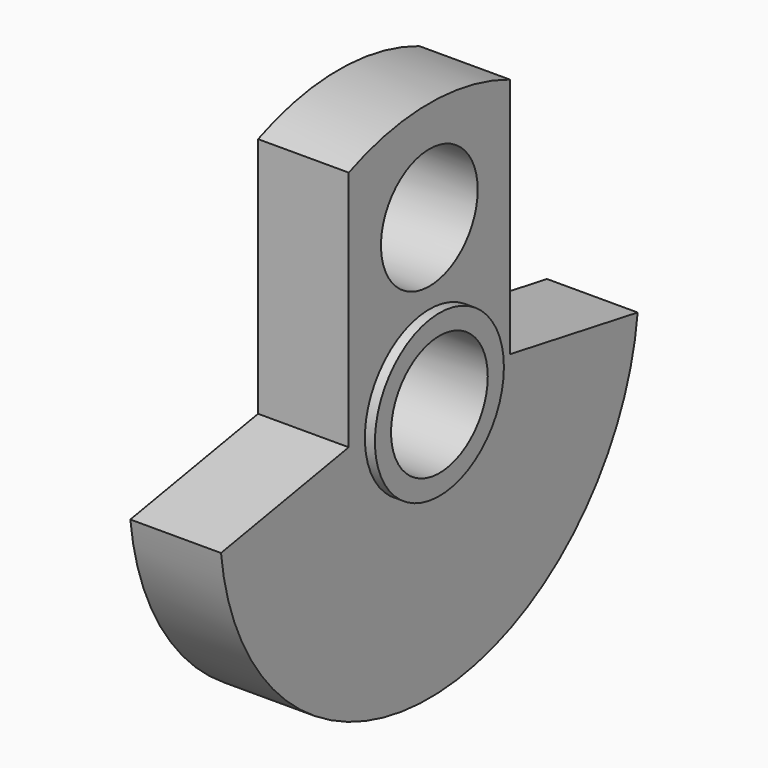
from build123d import *

# Parameters (mm, degrees)
F0_R     = 9.525
F1_DEPTH = 7.14375
F2_R     = 12.7
F2_R_2   = 9.525
F3_DEPTH = 1.5875


with BuildPart() as f1:
    # F0 (on Right) → F1 (new body, symmetric)
    with BuildSketch(Plane.YZ):
        with BuildLine():
            Line((-15.875, 0), (-41.035871, -4.43654))
            ThreePointArc((-41.035871, -4.43654), (0, -41.275), (41.035871, -4.43654))
            Line((41.035871, -4.43654), (15.875, 0))
            Line((15.875, 0), (15.875, 38.1))
            ThreePointArc((15.875, 38.1), (0, 41.275), (-15.875, 38.1))
            Line((-15.875, 38.1), (-15.875, 0))
        make_face()
        Circle(F0_R, mode=Mode.SUBTRACT)
        with Locations((0, 25.4)):
            Circle(F0_R, mode=Mode.SUBTRACT)
    extrude(amount=F1_DEPTH, both=True)

    # F2 (on face) → F3 (join)
    with BuildSketch(Plane.YZ.offset(7.14375)):
        Circle(F2_R)
        Circle(F2_R_2, mode=Mode.SUBTRACT)
    extrude(amount=F3_DEPTH)


solid = f1.part
